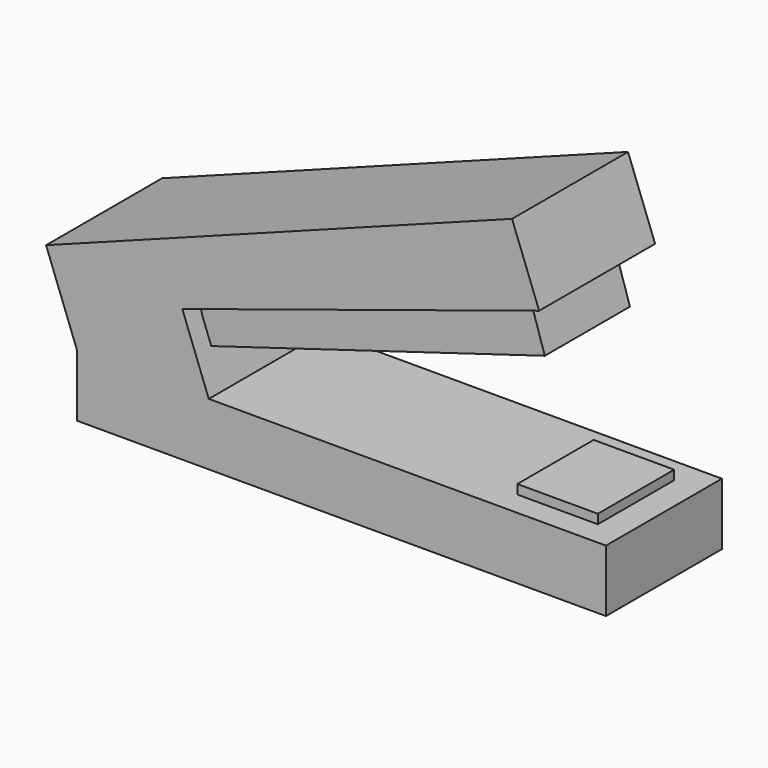
from build123d import *

# Parameters (mm, degrees)
F2_DEPTH = 12.7
F3_DEPTH = 9.3243
F4_W     = 14.10933
F4_H     = 16.725193
F5_DEPTH = 1.62709


with BuildPart() as f2:
    # F0 (on Front) → F2 (new body, symmetric)
    with BuildSketch(Plane.XZ):
        Polygon((-50.360113, 15.644414), (-48.572179, 10.876591), (-25.479328, 10.876591), (-30.114328, 23.236587), align=None)
        Polygon((-25.479328, 10.876591), (-48.572179, 10.876591), (-48.572179, 0), (44.102348, 0), (44.102348, 10.876591), align=None)
        Polygon((-53.984965, 25.31068), (-50.360113, 15.644414), (-30.114328, 23.236587), (32.39506, 43.287981), (27.655806, 55.925984), align=None)
    extrude(amount=F2_DEPTH, both=True)

    # F1 (on Front) → F3 (join, symmetric)
    with BuildSketch(Plane.XZ):
        Polygon((30.692847, 34.417707), (28.308937, 41.867431), (-30.041804, 23.617359), (-28.010949, 16.836369), align=None)
    extrude(amount=F3_DEPTH, both=True)

    # F4 (on face) → F5 (join)
    with BuildSketch(Plane.XY.offset(10.876591)):
        with Locations((32.239902, -0.102639)):
            Rectangle(F4_W, F4_H)
    extrude(amount=F5_DEPTH)


solid = f2.part
